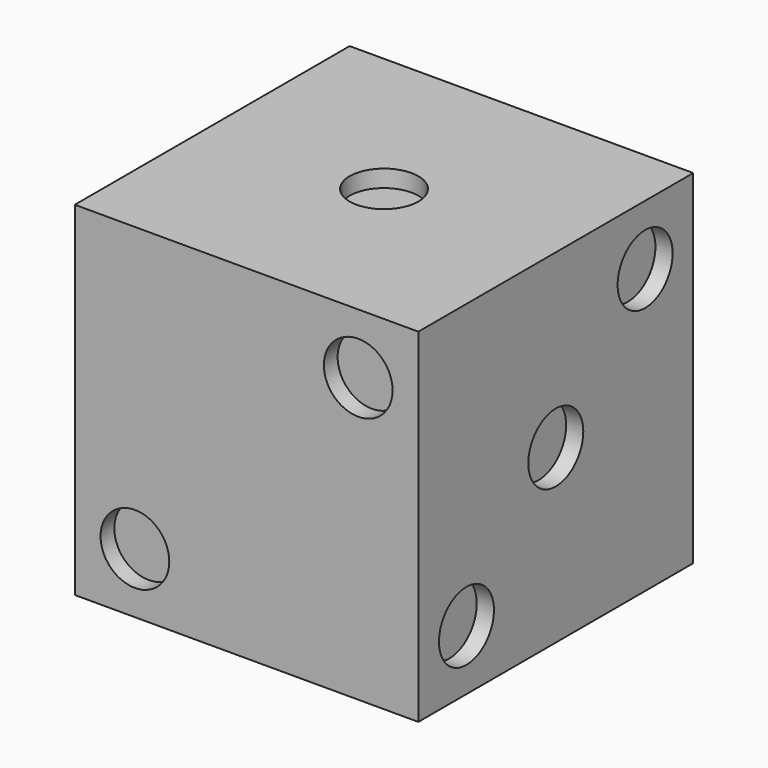
from build123d import *

# Parameters (mm, degrees)
F0_W      = 127
F0_H      = 127
F1_DEPTH  = 127
F2_R      = 12.7
F3_DEPTH  = 6.35
F4_R      = 12.7
F5_DEPTH  = 6.35
F6_R      = 12.7
F7_DEPTH  = 6.35
F8_R      = 12.7
F9_DEPTH  = 6.35
F10_R     = 12.7
F11_DEPTH = 6.35
F12_R     = 12.7
F13_DEPTH = 6.35


with BuildPart() as f1:
    # F0 (on Top) → F1 (new body)
    with BuildSketch(Plane.XY):
        with Locations((63.5, 63.5)):
            Rectangle(F0_W, F0_H)
    extrude(amount=F1_DEPTH)

    # F2 (on face) → F3 (cut)
    with BuildSketch(Plane.XY.offset(127)):
        with Locations((63.5, 63.5)):
            Circle(F2_R)
    extrude(amount=-F3_DEPTH, mode=Mode.SUBTRACT)

    # F4 (on face) → F5 (cut)
    with BuildSketch(Plane.XZ):
        with Locations((22.225, 22.225)):
            Circle(F4_R)
        with Locations((104.775, 104.775)):
            Circle(F4_R)
    extrude(amount=-F5_DEPTH, mode=Mode.SUBTRACT)

    # F6 (on face) → F7 (cut)
    with BuildSketch(Plane(origin=(0, 0, 0), x_dir=(0, -1, 0), z_dir=(-1, 0, 0))):
        with Locations((-104.775, 104.775)):
            Circle(F6_R)
        with Locations((-22.225, 104.775)):
            Circle(F6_R)
        with Locations((-22.225, 22.225)):
            Circle(F6_R)
        with Locations((-104.775, 22.225)):
            Circle(F6_R)
    extrude(amount=-F7_DEPTH, mode=Mode.SUBTRACT)

    # F8 (on face) → F9 (cut)
    with BuildSketch(Plane(origin=(0, 0, 0), x_dir=(1, 0, 0), z_dir=(0, 0, -1))):
        with Locations((22.225, -22.225)):
            Circle(F8_R)
        with Locations((22.225, -63.5)):
            Circle(F8_R)
        with Locations((22.225, -104.775)):
            Circle(F8_R)
        with Locations((104.775, -104.775)):
            Circle(F8_R)
        with Locations((104.775, -63.5)):
            Circle(F8_R)
        with Locations((104.775, -22.225)):
            Circle(F8_R)
    extrude(amount=-F9_DEPTH, mode=Mode.SUBTRACT)

    # F10 (on face) → F11 (cut)
    with BuildSketch(Plane.YZ.offset(127)):
        with Locations((22.225, 22.225)):
            Circle(F10_R)
        with Locations((63.5, 63.5)):
            Circle(F10_R)
        with Locations((104.775, 104.775)):
            Circle(F10_R)
    extrude(amount=-F11_DEPTH, mode=Mode.SUBTRACT)

    # F12 (on face) → F13 (cut)
    with BuildSketch(Plane(origin=(0, 127, 0), x_dir=(-1, 0, 0), z_dir=(0, 1, 0))):
        with Locations((-104.775, 104.775)):
            Circle(F12_R)
        with Locations((-63.5, 63.5)):
            Circle(F12_R)
        with Locations((-104.775, 22.225)):
            Circle(F12_R)
        with Locations((-22.225, 22.225)):
            Circle(F12_R)
        with Locations((-22.225, 104.775)):
            Circle(F12_R)
    extrude(amount=-F13_DEPTH, mode=Mode.SUBTRACT)


solid = f1.part
